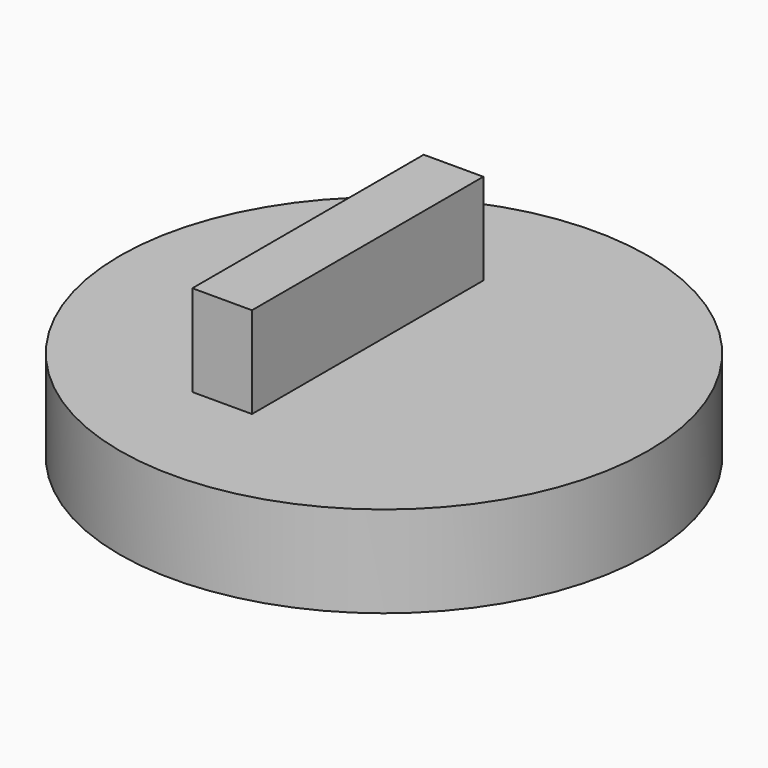
from build123d import *

# Parameters (mm, degrees)
F0_R     = 73.412381
F1_DEPTH = 25.4
F2_W     = 16.572997
F2_H     = 80.379516
F3_DEPTH = 25.4


with BuildPart() as f1:
    # F0 (on Top) → F1 (new body)
    with BuildSketch(Plane.XY):
        Circle(F0_R)
    extrude(amount=F1_DEPTH)

    # F2 (on face) → F3 (join)
    with BuildSketch(Plane.XY.offset(25.4)):
        with Locations((-12.828204, 0)):
            Rectangle(F2_W, F2_H)
    extrude(amount=F3_DEPTH)


solid = f1.part
